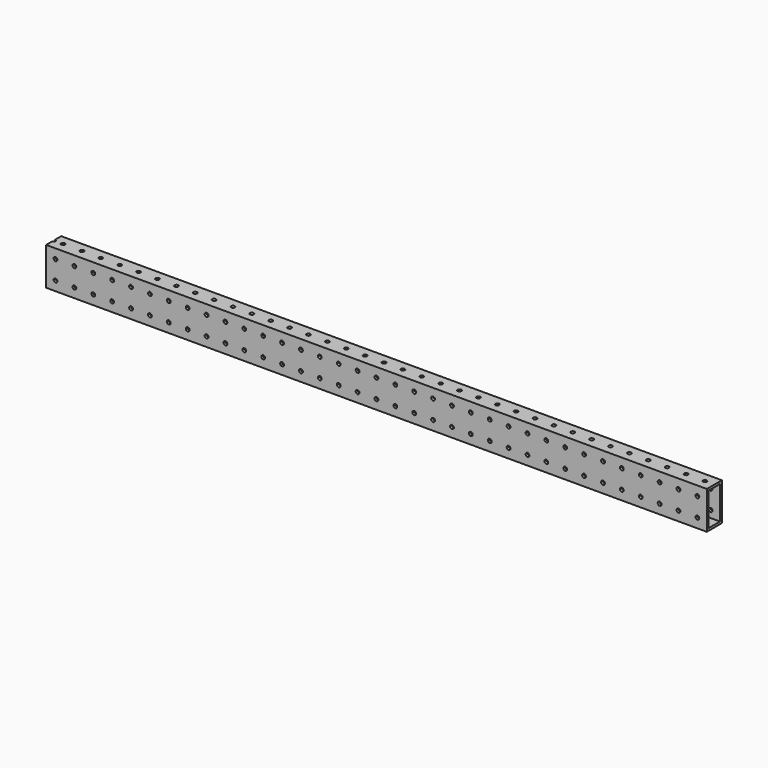
from build123d import *

# Parameters (mm, degrees)
F0_W     = 889
F0_H     = 50.8
F1_DEPTH = 25.4
F3_D     = 5.1054
F3_DEPTH = 50.8
F5_D     = 5.1054
F5_DEPTH = 50.8
F6_W     = 19.05
F6_H     = 44.45
F7_DEPTH = 889


with BuildPart() as f1:
    # F0 (on Front) → F1 (new body)
    with BuildSketch(Plane.XZ):
        Rectangle(F0_W, F0_H)
    extrude(amount=F1_DEPTH)

    # F3
    with Locations(Plane.XZ.offset(25.4)):
        with Locations((330.2, -12.7), (-76.2, -12.7), (127, -12.7), (203.2, 12.7), (0, 12.7), (-203.2, 12.7), (-279.4, 12.7), (330.2, 12.7), (127, 12.7), (-76.2, 12.7), (228.6, -12.7), (25.4, -12.7), (-177.8, -12.7), (431.8, -12.7), (-330.2, 12.7), (-254, -12.7), (-304.8, -12.7), (-304.8, 12.7), (355.6, -12.7), (152.4, -12.7), (-50.8, -12.7), (-431.8, -12.7), (-431.8, 12.7), (-406.4, -12.7), (-406.4, 12.7), (-381, -12.7), (-381, 12.7), (-355.6, -12.7), (-355.6, 12.7), (-330.2, -12.7), (228.6, 12.7), (25.4, 12.7), (-177.8, 12.7), (406.4, 12.7), (-279.4, -12.7), (-101.6, 12.7), (101.6, 12.7), (203.2, -12.7), (0, -12.7), (406.4, -12.7), (304.8, 12.7), (-203.2, -12.7), (-127, -12.7), (76.2, -12.7), (279.4, -12.7), (-25.4, 12.7), (-101.6, -12.7), (177.8, 12.7), (101.6, -12.7), (304.8, -12.7), (381, 12.7), (-228.6, 12.7), (-152.4, 12.7), (50.8, 12.7), (254, 12.7), (431.8, 12.7), (-254, 12.7), (355.6, 12.7), (152.4, 12.7), (-50.8, 12.7), (254, -12.7), (50.8, -12.7), (-152.4, -12.7), (-228.6, -12.7), (279.4, 12.7), (381, -12.7), (76.2, 12.7), (177.8, -12.7), (-127, 12.7), (-25.4, -12.7)):
            Hole(F3_D / 2, depth=F3_DEPTH)

    # F5
    with Locations(Plane(origin=(0, 0, -25.4), x_dir=(1, 0, 0), z_dir=(0, 0, -1))):
        with Locations((228.6, 12.7), (-254, 12.7), (406.4, 12.7), (0, 12.7), (-279.4, 12.7), (-203.2, 12.7), (304.8, 12.7), (-228.6, 12.7), (-101.6, 12.7), (177.8, 12.7), (-25.4, 12.7), (381, 12.7), (152.4, 12.7), (127, 12.7), (279.4, 12.7), (50.8, 12.7), (355.6, 12.7), (-50.8, 12.7), (101.6, 12.7), (25.4, 12.7), (431.8, 12.7), (254, 12.7), (-76.2, 12.7), (330.2, 12.7), (203.2, 12.7), (-444.5, 12.7), (-431.8, 12.7), (-381, 12.7), (76.2, 12.7), (-355.6, 12.7), (-304.8, 12.7), (-330.2, 12.7), (-177.8, 12.7), (-127, 12.7), (-152.4, 12.7), (-406.4, 12.7)):
            Hole(F5_D / 2, depth=F5_DEPTH)

    # F6 (on face) → F7 (cut)
    with BuildSketch(Plane.YZ.offset(444.5)):
        with Locations((-12.7, 0)):
            Rectangle(F6_W, F6_H)
    extrude(amount=-F7_DEPTH, mode=Mode.SUBTRACT)


solid = f1.part
